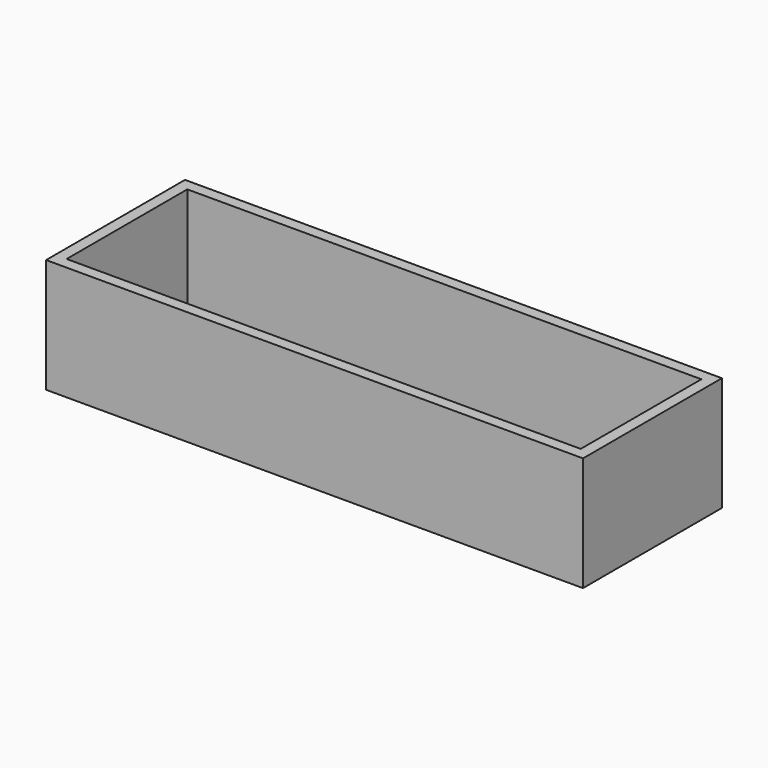
from build123d import *

# Parameters (mm, degrees)
BOX_W        = 235
BOX_H        = 76
BOX_DEPTH    = 50
SKETCH_W     = 225
SKETCH_H     = 66
POCKET_DEPTH = 45


with BuildPart() as part:
    # Box → Box (join)
    with BuildSketch(Plane.XY):
        with Locations((117.5, 38)):
            Rectangle(BOX_W, BOX_H)
    extrude(amount=BOX_DEPTH)

    # Sketch (on Face6 of Box) → Pocket (cut)
    with BuildSketch(Plane.XY.offset(50)):
        with Locations((117.5, 38)):
            Rectangle(SKETCH_W, SKETCH_H)
    extrude(amount=-POCKET_DEPTH, mode=Mode.SUBTRACT)


solid = part.part
